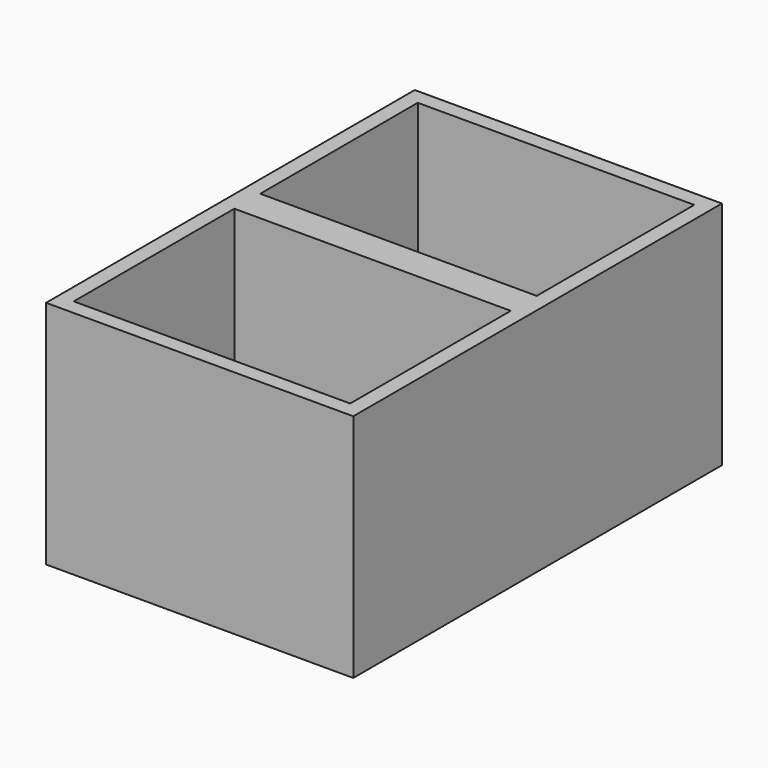
from build123d import *

# Parameters (mm, degrees)
F0_W     = 50.8
F0_H     = 76.200003
F1_DEPTH = 38.1
F2_T     = -2.54
F3_W     = 45.72
F3_H     = 2.990683
F3_H_2   = 2.366999
F4_DEPTH = 35.56


with BuildPart() as f1:
    # F0 (on Top) → F1 (new body)
    with BuildSketch(Plane.XY):
        with Locations((4.165911, -5.146126)):
            Rectangle(F0_W, F0_H)
    extrude(amount=F1_DEPTH)

    # F2
    f2_openings = [f1.faces().sort_by_distance(p)[0] for p in [
        (4.165911, -5.146125, 38.1),
    ]]
    offset(amount=F2_T, openings=f2_openings)

    # F3 (on face) → F4 (join)
    with BuildSketch(Plane.XY.offset(2.54)):
        with Locations((4.165911, -3.650783)):
            Rectangle(F3_W, F3_H)
        with Locations((4.165911, -6.329624)):
            Rectangle(F3_W, F3_H_2)
    extrude(amount=F4_DEPTH)


solid = f1.part
